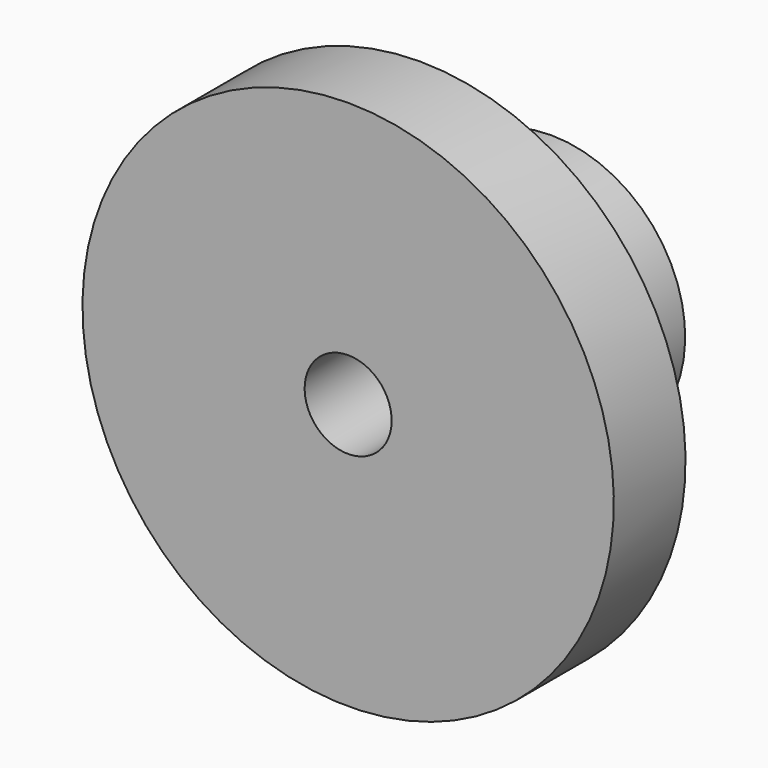
from build123d import *

# Parameters (mm, degrees)
F0_W   = 52.3225814104
F0_H   = 76.8412649632
F0_H_2 = 52.8642513514
F0_W_2 = 95.7905501127
F2_R   = 8.5849434278


with BuildPart() as f1:
    # F0 (on Right) → F1 (revolve)
    with BuildSketch(Plane.YZ):
        with Locations((26.1612907052, 116.6848838329)):
            Rectangle(F0_W, F0_H)
        with Locations((26.1612907052, 51.8321256757)):
            Rectangle(F0_W, F0_H_2)
        with Locations((100.2178564668, 51.8321256757)):
            Rectangle(F0_W_2, F0_H_2)
    revolve(axis=Axis((0, 74.0565657616, 0), (0, 1, 0)))

    # F2
    f2_edges = [f1.edges().sort_by_distance(p)[0] for p in [
        (0, 52.322581, -78.264251),
    ]]
    fillet(f2_edges, radius=F2_R)


solid = f1.part
